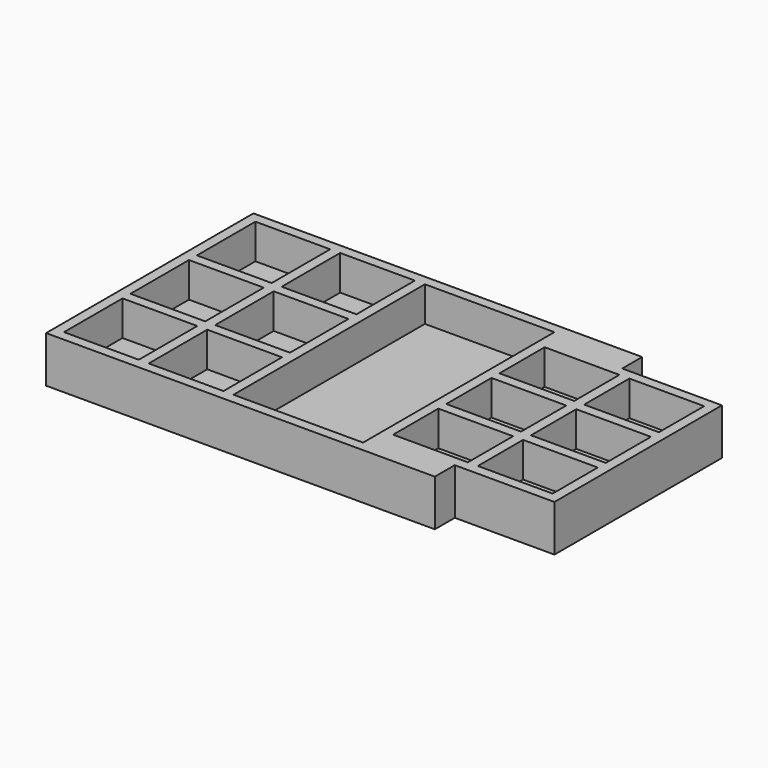
from build123d import *

# Parameters (mm, degrees)
SKETCH_W        = 98
SKETCH_H        = 52
PAD_DEPTH       = 9.3
SKETCH001_W     = 20
SKETCH001_H     = 5
POCKET_DEPTH    = 9.301
SKETCH002_W     = 15
SKETCH002_H     = 14.666667
SKETCH002_H_2   = 14.666666
SKETCH002_W_2   = 26
SKETCH002_H_3   = 48
SKETCH002_H_4   = 11.333333
SKETCH002_H_5   = 11.333334
POCKET001_DEPTH = 7


with BuildPart() as part:
    # Sketch → Pad (new body)
    with BuildSketch(Plane.XY):
        with Locations((49, 26)):
            Rectangle(SKETCH_W, SKETCH_H)
    extrude(amount=PAD_DEPTH)

    # Sketch001 (on Face6 of Pad) → Pocket (cut, through all)
    with BuildSketch(Plane.XY.offset(9.3)):
        with Locations((88, 49.5)):
            Rectangle(SKETCH001_W, SKETCH001_H)
        with Locations((88, 2.5)):
            Rectangle(SKETCH001_W, SKETCH001_H)
    extrude(amount=-POCKET_DEPTH, mode=Mode.SUBTRACT)

    # Sketch002 (on Face6 of Pad) → Pocket001 (cut)
    with BuildSketch(Plane.XY.offset(9.3)):
        with Locations((9.5, 42.666666)):
            Rectangle(SKETCH002_W, SKETCH002_H)
        with Locations((9.5, 26)):
            Rectangle(SKETCH002_W, SKETCH002_H_2)
        with Locations((9.5, 9.333334)):
            Rectangle(SKETCH002_W, SKETCH002_H)
        with Locations((26.5, 42.666666)):
            Rectangle(SKETCH002_W, SKETCH002_H)
        with Locations((26.5, 26)):
            Rectangle(SKETCH002_W, SKETCH002_H_2)
        with Locations((26.5, 9.333334)):
            Rectangle(SKETCH002_W, SKETCH002_H)
        with Locations((49, 26)):
            Rectangle(SKETCH002_W_2, SKETCH002_H_3)
        with Locations((71.5, 39.371451)):
            Rectangle(SKETCH002_W, SKETCH002_H_4)
        with Locations((71.5, 26.038118)):
            Rectangle(SKETCH002_W, SKETCH002_H_5)
        with Locations((71.5, 12.704785)):
            Rectangle(SKETCH002_W, SKETCH002_H_4)
        with Locations((88.5, 39.371451)):
            Rectangle(SKETCH002_W, SKETCH002_H_4)
        with Locations((88.5, 26.038118)):
            Rectangle(SKETCH002_W, SKETCH002_H_5)
        with Locations((88.5, 12.704785)):
            Rectangle(SKETCH002_W, SKETCH002_H_4)
    extrude(amount=-POCKET001_DEPTH, mode=Mode.SUBTRACT)


solid = part.part
